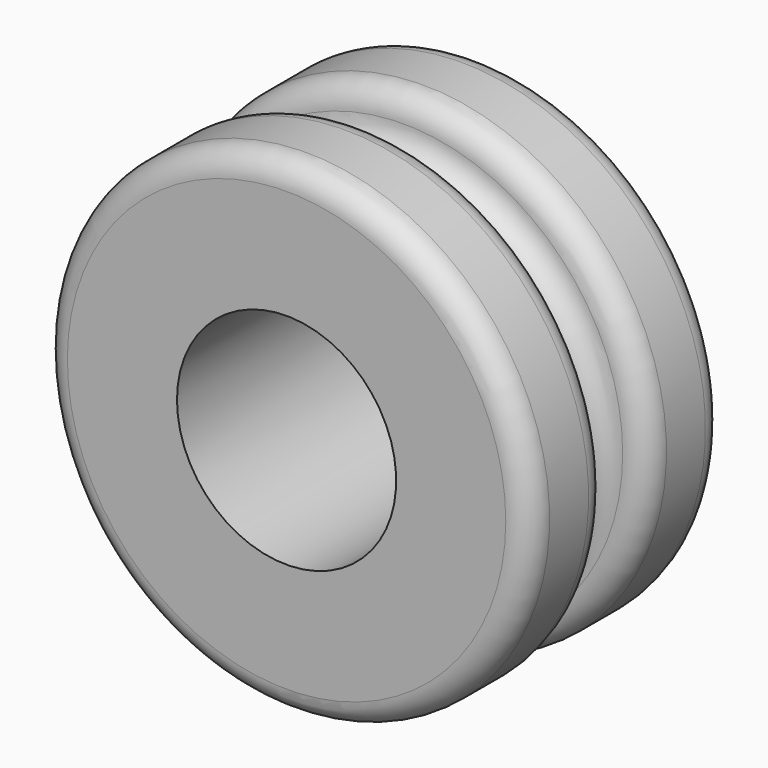
from build123d import *


with BuildPart() as f1:
    # F0 (on Top) → F1 (revolve)
    with BuildSketch(Plane.XY):
        with BuildLine():
            Line((-45, 0), (-22.5, 0))
            Line((-22.5, 0), (-22.5, 50))
            Line((-22.5, 50), (-45, 50))
            ThreePointArc((-45, 50), (-48.535534, 48.535534), (-50, 45))
            Line((-50, 45), (-50, 35))
            ThreePointArc((-50, 35), (-48.535534, 31.464466), (-45, 30))
            ThreePointArc((-45, 30), (-41.464466, 28.535534), (-40, 25))
            ThreePointArc((-40, 25), (-41.464466, 21.464466), (-45, 20))
            ThreePointArc((-45, 20), (-48.535534, 18.535534), (-50, 15))
            Line((-50, 15), (-50, 5))
            ThreePointArc((-50, 5), (-48.535534, 1.464466), (-45, 0))
        make_face()
    revolve(axis=Axis((0, 25, 0), (0, 1, 0)))


solid = f1.part
